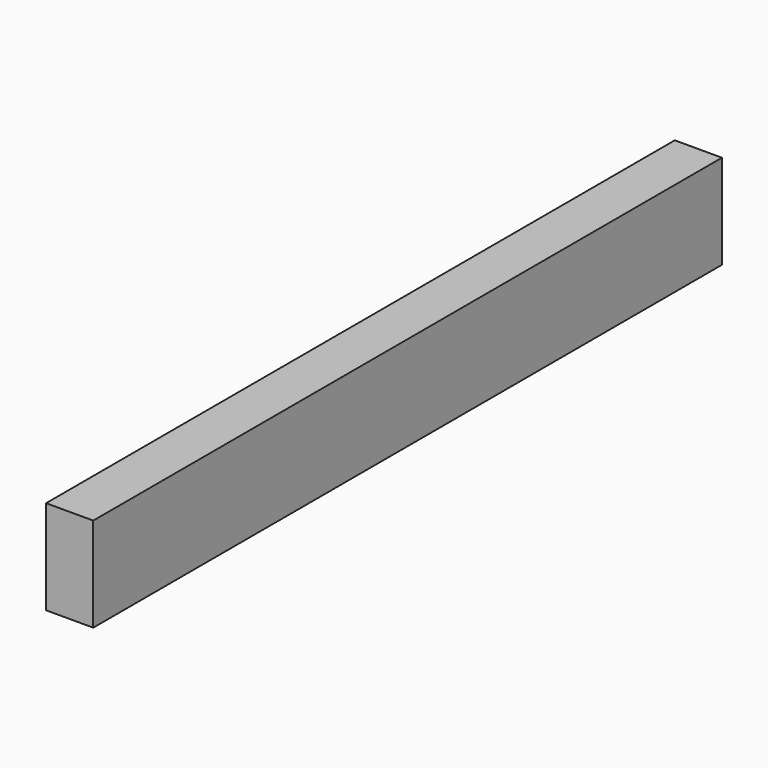
from build123d import *

# Parameters (mm, degrees)
F1_W     = 24
F1_H     = 48
F2_DEPTH = 400


with BuildPart() as f2:
    # F1 (on Front) → F2 (new body)
    with BuildSketch(Plane.XZ):
        Rectangle(F1_W, F1_H)
        Rectangle(F1_W, F1_H)
    extrude(amount=F2_DEPTH)


solid = f2.part
